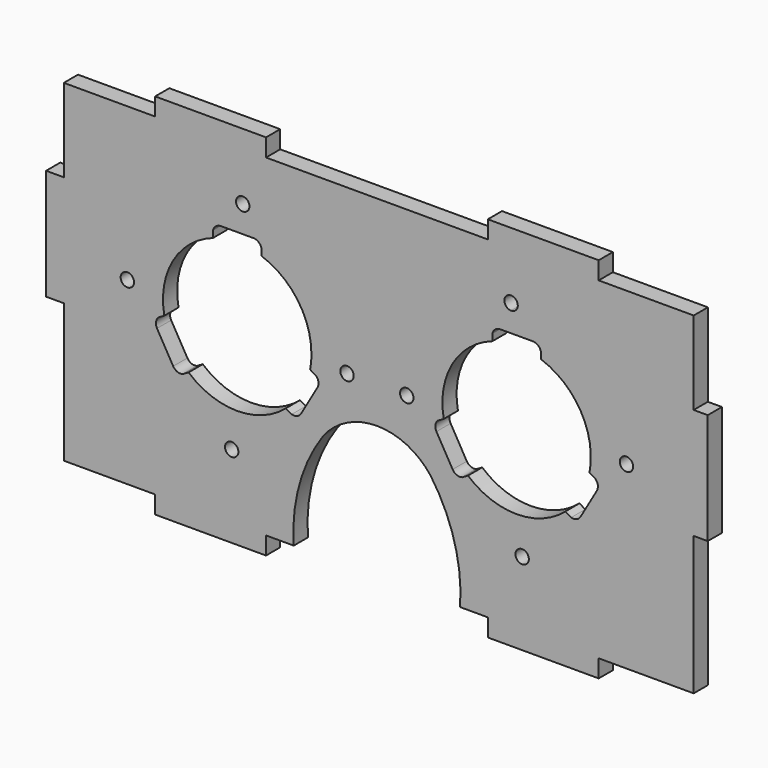
from build123d import *

# Parameters (mm, degrees)
F0_R     = 1.5367
F1_DEPTH = 4.064


with BuildPart() as f1:
    # F0 (on Front) → F1 (new body)
    with BuildSketch(Plane.XZ):
        with BuildLine():
            Line((-104.230369, 34.021411), (-104.230369, 10.399411))
            Line((-104.230369, 10.399411), (-83.317001, 10.399411))
            Line((-83.317001, 10.399411), (-83.317001, 6.335411))
            Line((-83.317001, 6.335411), (-57.917001, 6.335411))
            Line((-57.917001, 6.335411), (-57.917001, 10.399411))
            Line((-57.917001, 10.399411), (-51.567001, 10.399411))
            ThreePointArc((-51.567001, 10.399411), (-50.286289, 23.155259), (-44.800168, 34.742078))
            ThreePointArc((-44.800168, 34.742078), (-39.353114, 39.16509), (-32.517001, 40.746542))
            Line((-32.517001, 40.746542), (-32.517001, 50.34544))
            Line((-32.517001, 50.34544), (-32.517001, 86.599411))
            Line((-32.517001, 86.599411), (-57.917001, 86.599411))
            Line((-57.917001, 86.599411), (-57.917001, 90.663411))
            Line((-57.917001, 90.663411), (-83.317001, 90.663411))
            Line((-83.317001, 90.663411), (-83.317001, 86.599411))
            Line((-83.317001, 86.599411), (-104.230369, 86.599411))
            Line((-104.230369, 86.599411), (-104.230369, 67.549411))
            Line((-104.230369, 67.549411), (-108.294369, 67.549411))
            Line((-108.294369, 67.549411), (-108.294369, 64.219405))
            Line((-108.294369, 64.219405), (-108.294369, 42.149411))
            Line((-108.294369, 42.149411), (-104.230369, 42.149411))
            Line((-104.230369, 42.149411), (-104.230369, 34.021411))
        make_face()
        with Locations((-65.78223, 25.183681)):
            Circle(F0_R, mode=Mode.SUBTRACT)
        with Locations((-89.67876, 51.61067)):
            Circle(F0_R, mode=Mode.SUBTRACT)
        with BuildLine():
            ThreePointArc((-58.96075, 66.41181), (-50.670405, 60.208094), (-47.516996, 50.34544))
            ThreePointArc((-47.516996, 50.34544), (-47.59417, 48.72743), (-47.824991, 47.124109))
            Line((-47.824991, 47.124109), (-46.479494, 46.347286))
            ThreePointArc((-46.479494, 46.347286), (-45.915131, 45.241108), (-46.151868, 44.022055))
            Line((-46.151868, 44.022055), (-49.858222, 37.602462))
            ThreePointArc((-49.858222, 37.602462), (-50.795585, 36.787915), (-52.035744, 36.723579))
            Line((-52.035744, 36.723579), (-53.381241, 37.500402))
            ThreePointArc((-53.381241, 37.500402), (-64.517, 33.345436), (-75.652759, 37.500402))
            Line((-75.652759, 37.500402), (-76.998257, 36.723579))
            ThreePointArc((-76.998257, 36.723579), (-78.238416, 36.787915), (-79.175778, 37.602462))
            Line((-79.175778, 37.602462), (-82.882132, 44.022055))
            ThreePointArc((-82.882132, 44.022055), (-83.118869, 45.241108), (-82.554507, 46.347286))
            Line((-82.554507, 46.347286), (-81.209009, 47.124109))
            ThreePointArc((-81.209009, 47.124109), (-79.239436, 58.845442), (-70.07325, 66.41181))
            Line((-70.07325, 66.41181), (-70.07325, 67.965456))
            ThreePointArc((-70.07325, 67.965456), (-69.397453, 69.007298), (-68.223354, 69.411804))
            Line((-68.223354, 69.411804), (-60.810646, 69.411804))
            ThreePointArc((-60.810646, 69.411804), (-59.636547, 69.007298), (-58.96075, 67.965456))
            Line((-58.96075, 67.965456), (-58.96075, 66.41181))
        make_face(mode=Mode.SUBTRACT)
        with BuildLine():
            ThreePointArc((-40.227387, 50.34544), (-39.35524, 50.61691), (-38.483094, 50.34544))
            ThreePointArc((-38.483094, 50.34544), (-37.994786, 49.79478), (-37.81854, 49.08021))
            ThreePointArc((-37.81854, 49.08021), (-40.06981, 47.719756), (-40.227387, 50.34544))
        make_face(mode=Mode.SUBTRACT)
        with Locations((-63.25177, 75.5072)):
            Circle(F0_R, mode=Mode.SUBTRACT)
        with BuildLine():
            Line((-32.517001, 50.34544), (-32.517001, 40.746542))
            ThreePointArc((-32.517001, 40.746542), (-25.680887, 39.16509), (-20.233833, 34.742078))
            ThreePointArc((-20.233833, 34.742078), (-14.747713, 23.155259), (-13.467001, 10.399411))
            Line((-13.467001, 10.399411), (-13.044369, 10.399411))
            Line((-13.044369, 10.399411), (-7.117001, 10.399411))
            Line((-7.117001, 10.399411), (-7.117001, 6.335411))
            Line((-7.117001, 6.335411), (18.282999, 6.335411))
            Line((18.282999, 6.335411), (18.282999, 10.399411))
            Line((18.282999, 10.399411), (40.041631, 10.399411))
            Line((40.041631, 10.399411), (40.041631, 34.021411))
            Line((40.041631, 34.021411), (40.041631, 42.149411))
            Line((40.041631, 42.149411), (43.260368, 42.149411))
            Line((43.260368, 42.149411), (43.260368, 67.549411))
            Line((43.260368, 67.549411), (40.041631, 67.549411))
            Line((40.041631, 67.549411), (40.041631, 86.599411))
            Line((40.041631, 86.599411), (18.282999, 86.599411))
            Line((18.282999, 86.599411), (18.282999, 90.663411))
            Line((18.282999, 90.663411), (-7.117001, 90.663411))
            Line((-7.117001, 90.663411), (-7.117001, 86.599411))
            Line((-7.117001, 86.599411), (-32.517001, 86.599411))
            Line((-32.517001, 86.599411), (-32.517001, 50.34544))
        make_face()
        with Locations((0.748229, 25.183681)):
            Circle(F0_R, mode=Mode.SUBTRACT)
        with Locations((-25.678761, 49.08021)):
            Circle(F0_R, mode=Mode.SUBTRACT)
        with BuildLine():
            Line((5.039249, 67.965456), (5.039249, 66.41181))
            ThreePointArc((5.039249, 66.41181), (14.205434, 58.845442), (16.175008, 47.124109))
            Line((16.175008, 47.124109), (17.520505, 46.347286))
            ThreePointArc((17.520505, 46.347286), (18.084868, 45.241108), (17.848131, 44.022055))
            Line((17.848131, 44.022055), (14.141777, 37.602462))
            ThreePointArc((14.141777, 37.602462), (13.204414, 36.787915), (11.964255, 36.723579))
            Line((11.964255, 36.723579), (10.618758, 37.500402))
            ThreePointArc((10.618758, 37.500402), (-0.517001, 33.345436), (-11.65276, 37.500402))
            Line((-11.65276, 37.500402), (-12.998258, 36.723579))
            ThreePointArc((-12.998258, 36.723579), (-14.238417, 36.787915), (-15.175779, 37.602462))
            Line((-15.175779, 37.602462), (-18.882133, 44.022055))
            ThreePointArc((-18.882133, 44.022055), (-19.11887, 45.241108), (-18.554508, 46.347286))
            Line((-18.554508, 46.347286), (-17.20901, 47.124109))
            ThreePointArc((-17.20901, 47.124109), (-15.239437, 58.845442), (-6.073251, 66.41181))
            Line((-6.073251, 66.41181), (-6.073251, 67.965456))
            ThreePointArc((-6.073251, 67.965456), (-5.397454, 69.007298), (-4.223355, 69.411804))
            Line((-4.223355, 69.411804), (3.189353, 69.411804))
            ThreePointArc((3.189353, 69.411804), (4.363452, 69.007298), (5.039249, 67.965456))
        make_face(mode=Mode.SUBTRACT)
        with Locations((24.644759, 51.61067)):
            Circle(F0_R, mode=Mode.SUBTRACT)
        with BuildLine():
            ThreePointArc((-1.782231, 73.9705), (-2.868842, 76.593811), (-0.245531, 75.5072))
            ThreePointArc((-0.245531, 75.5072), (-0.69562, 74.420589), (-1.782231, 73.9705))
        make_face(mode=Mode.SUBTRACT)
    extrude(amount=F1_DEPTH)


solid = f1.part
